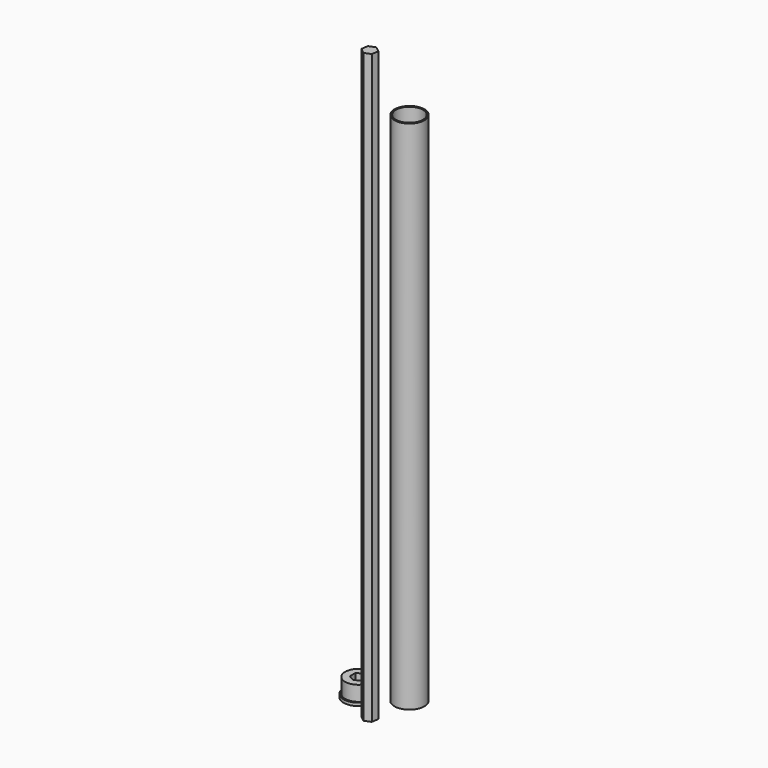
from build123d import *

# Parameters (mm, degrees)
F1_R     = 15.875
F1_R_2   = 14.2875
F2_DEPTH = 3.175
F3_DEPTH = 19.05
F4_R     = 15.875
F4_R_2   = 14.2875
F5_DEPTH = 546.1
F7_DEPTH = 622.3


with BuildPart() as f2:
    # F1 (on Top) → F2 (new body)
    with BuildSketch(Plane.XY):
        with Locations((-50.4556372762, 45.6479154527)):
            Circle(F1_R)
        with Locations((-50.4556372762, 45.6479154527)):
            Circle(F1_R_2, mode=Mode.SUBTRACT)
    extrude(amount=F2_DEPTH)

    # F1 (on Top) → F3 (join)
    with BuildSketch(Plane.XY):
        with Locations((-50.4556372762, 45.6479154527)):
            Circle(F1_R_2)
        Polygon((-56.8100148519, 41.9893339027), (-56.8012506282, 49.3216770836), (-50.4468730524, 52.9802586336), (-44.1012597004, 49.3064970027), (-44.1100239242, 41.9741538219), (-50.4644014999, 38.3155722719), align=None, mode=Mode.SUBTRACT)
    extrude(amount=F3_DEPTH)


with BuildPart() as f5:
    # F4 (on Top) → F5 (new body)
    with BuildSketch(Plane.XY):
        with Locations((-13.6055322364, 66.9268071651)):
            Circle(F4_R)
        with Locations((-13.6055322364, 66.9268071651)):
            Circle(F4_R_2, mode=Mode.SUBTRACT)
    extrude(amount=F5_DEPTH)


with BuildPart() as f7:
    # F6 (on Top) → F7 (new body)
    with BuildSketch(Plane.XY):
        Polygon((-21.1692983805, 15.3458256907), (-14.3411023118, 18.0177298397), (-13.2409411469, 25.2670731716), (-18.9689760507, 29.8445123546), (-25.7971721194, 27.1726082057), (-26.8973332843, 19.9232648738), align=None)
    extrude(amount=F7_DEPTH)


solid = Compound([f2.part, f5.part, f7.part])
